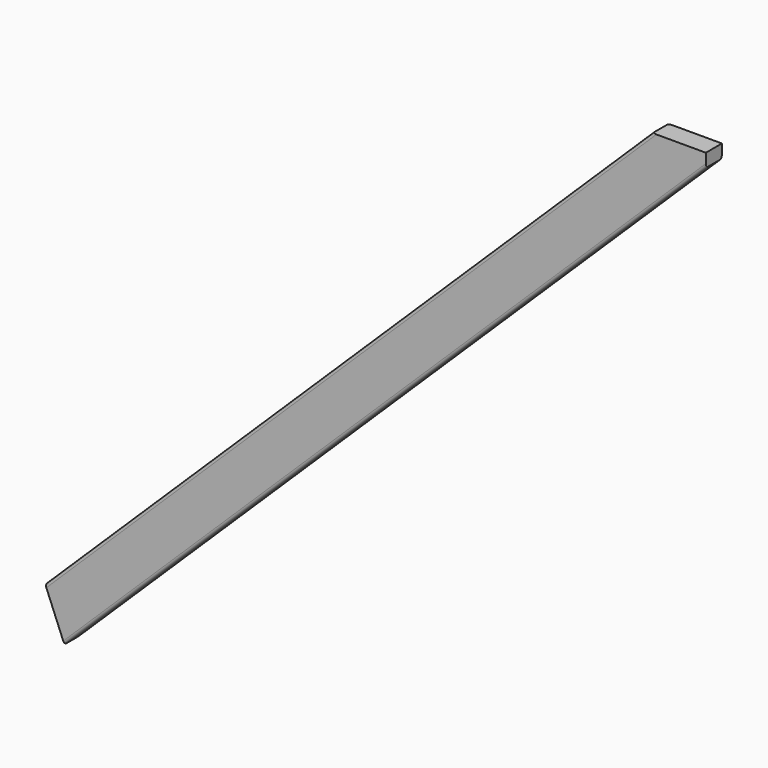
from build123d import *

# Parameters (mm, degrees)
F1_DEPTH = 38.1
F2_R     = 5.08
F3_R     = 5.08


with BuildPart() as f1:
    # F0 (on Front) → F1 (new body)
    with BuildSketch(Plane.XZ):
        Polygon((1288.923878, 939.480245), (135.55616, -189.862576), (171.830923, -278.764475), (1390.051439, 914.080245), (1390.051439, 939.480245), align=None)
    extrude(amount=F1_DEPTH)

    # F2
    f2_edges = [f1.edges().sort_by_distance(p)[0] for p in [
        (712.240019, -38.1, 374.808834),
        (712.240019, 0, 374.808834),
        (780.941181, -38.1, 317.657885),
    ]]
    fillet(f2_edges, radius=F2_R)

    # F3
    f3_edges = [f1.edges().sort_by_distance(p)[0] for p in [
        (780.941181, 0, 317.657885),
    ]]
    fillet(f3_edges, radius=F3_R)


solid = f1.part
